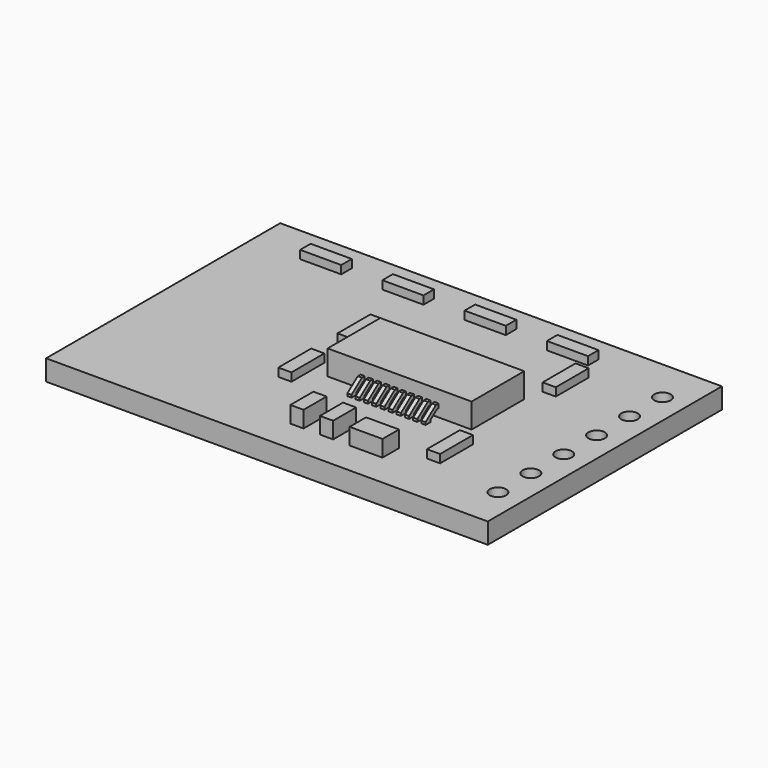
from build123d import *

# Parameters (mm, degrees)
F0_W          = 26.85
F0_H          = 17.79
F0_R          = 0.5
F1_DEPTH      = 1.25
F3_DEPTH      = 1.5
F2_W          = 0.25
F2_H          = 1
F4_DEPTH      = 0.75
F6_DEPTH      = 13.426
F6_DEPTH_BACK = 25.4
F7_W          = 0.8
F7_H          = 2.5
F8_DEPTH      = 0.5
F7_W_2        = 2.5
F7_H_2        = 0.8
F9_W          = 0.8
F9_H          = 1.75
F10_DEPTH     = 1
F9_W_2        = 2
F9_H_2        = 1.25


with BuildPart() as f1:
    # F0 (on Top) → F1 (new body)
    with BuildSketch(Plane.XY):
        Rectangle(F0_W, F0_H)
        with Locations((11.925, -6.25)):
            Circle(F0_R, mode=Mode.SUBTRACT)
        with Locations((11.925, -3.75)):
            Circle(F0_R, mode=Mode.SUBTRACT)
        with Locations((11.925, -1.25)):
            Circle(F0_R, mode=Mode.SUBTRACT)
        with Locations((11.925, 1.25)):
            Circle(F0_R, mode=Mode.SUBTRACT)
        with Locations((11.925, 3.75)):
            Circle(F0_R, mode=Mode.SUBTRACT)
        with Locations((11.925, 6.25)):
            Circle(F0_R, mode=Mode.SUBTRACT)
    extrude(amount=F1_DEPTH)


with BuildPart() as f3:
    # F2 (on face) → F3 (new body)
    with BuildSketch(Plane.XY.offset(1.25)):
        Polygon((4.925, -2), (6.925, -2), (6.925, 2), (4.925, 2), (4.675, 2), (4.425, 2), (4.175, 2), (3.925, 2), (3.675, 2), (3.425, 2), (3.175, 2), (2.925, 2), (2.675, 2), (2.425, 2), (2.175, 2), (1.925, 2), (1.675, 2), (1.425, 2), (1.175, 2), (0.925, 2), (0.675, 2), (0.425, 2), (0.175, 2), (-1.825, 2), (-1.825, -2), (0.175, -2), (0.425, -2), (0.675, -2), (0.925, -2), (1.175, -2), (1.425, -2), (1.675, -2), (1.925, -2), (2.175, -2), (2.425, -2), (2.675, -2), (2.925, -2), (3.175, -2), (3.425, -2), (3.675, -2), (3.925, -2), (4.175, -2), (4.425, -2), (4.675, -2), align=None)
    extrude(amount=F3_DEPTH)


with BuildPart() as f4:
    # F2 (on face) → F4 (new body)
    with BuildSketch(Plane.XY.offset(1.25)):
        with Locations((4.8, 2.5)):
            Rectangle(F2_W, F2_H)
    extrude(amount=F4_DEPTH)


with BuildPart() as f4b:
    # F2 (on face) → F4, piece 2 (new body)
    with BuildSketch(Plane.XY.offset(1.25)):
        with Locations((1.8, 2.5)):
            Rectangle(F2_W, F2_H)
    extrude(amount=F4_DEPTH)


with BuildPart() as f4c:
    # F2 (on face) → F4, piece 3 (new body)
    with BuildSketch(Plane.XY.offset(1.25)):
        with Locations((4.3, 2.5)):
            Rectangle(F2_W, F2_H)
    extrude(amount=F4_DEPTH)


with BuildPart() as f4d:
    # F2 (on face) → F4, piece 4 (new body)
    with BuildSketch(Plane.XY.offset(1.25)):
        with Locations((4.3, -2.5)):
            Rectangle(F2_W, F2_H)
    extrude(amount=F4_DEPTH)


with BuildPart() as f4e:
    # F2 (on face) → F4, piece 5 (new body)
    with BuildSketch(Plane.XY.offset(1.25)):
        with Locations((2.8, 2.5)):
            Rectangle(F2_W, F2_H)
    extrude(amount=F4_DEPTH)


with BuildPart() as f4f:
    # F2 (on face) → F4, piece 6 (new body)
    with BuildSketch(Plane.XY.offset(1.25)):
        with Locations((1.3, 2.5)):
            Rectangle(F2_W, F2_H)
    extrude(amount=F4_DEPTH)


with BuildPart() as f4g:
    # F2 (on face) → F4, piece 7 (new body)
    with BuildSketch(Plane.XY.offset(1.25)):
        with Locations((4.8, -2.5)):
            Rectangle(F2_W, F2_H)
    extrude(amount=F4_DEPTH)


with BuildPart() as f4h:
    # F2 (on face) → F4, piece 8 (new body)
    with BuildSketch(Plane.XY.offset(1.25)):
        with Locations((3.3, 2.5)):
            Rectangle(F2_W, F2_H)
    extrude(amount=F4_DEPTH)


with BuildPart() as f4i:
    # F2 (on face) → F4, piece 9 (new body)
    with BuildSketch(Plane.XY.offset(1.25)):
        with Locations((1.3, -2.5)):
            Rectangle(F2_W, F2_H)
    extrude(amount=F4_DEPTH)


with BuildPart() as f4j:
    # F2 (on face) → F4, piece 10 (new body)
    with BuildSketch(Plane.XY.offset(1.25)):
        with Locations((0.3, -2.5)):
            Rectangle(F2_W, F2_H)
    extrude(amount=F4_DEPTH)


with BuildPart() as f4k:
    # F2 (on face) → F4, piece 11 (new body)
    with BuildSketch(Plane.XY.offset(1.25)):
        with Locations((1.8, -2.5)):
            Rectangle(F2_W, F2_H)
    extrude(amount=F4_DEPTH)


with BuildPart() as f4l:
    # F2 (on face) → F4, piece 12 (new body)
    with BuildSketch(Plane.XY.offset(1.25)):
        with Locations((2.3, -2.5)):
            Rectangle(F2_W, F2_H)
    extrude(amount=F4_DEPTH)


with BuildPart() as f4m:
    # F2 (on face) → F4, piece 13 (new body)
    with BuildSketch(Plane.XY.offset(1.25)):
        with Locations((2.8, -2.5)):
            Rectangle(F2_W, F2_H)
    extrude(amount=F4_DEPTH)


with BuildPart() as f4n:
    # F2 (on face) → F4, piece 14 (new body)
    with BuildSketch(Plane.XY.offset(1.25)):
        with Locations((3.3, -2.5)):
            Rectangle(F2_W, F2_H)
    extrude(amount=F4_DEPTH)


with BuildPart() as f4o:
    # F2 (on face) → F4, piece 15 (new body)
    with BuildSketch(Plane.XY.offset(1.25)):
        with Locations((0.3, 2.5)):
            Rectangle(F2_W, F2_H)
    extrude(amount=F4_DEPTH)


with BuildPart() as f4p:
    # F2 (on face) → F4, piece 16 (new body)
    with BuildSketch(Plane.XY.offset(1.25)):
        with Locations((2.3, 2.5)):
            Rectangle(F2_W, F2_H)
    extrude(amount=F4_DEPTH)


with BuildPart() as f4q:
    # F2 (on face) → F4, piece 17 (new body)
    with BuildSketch(Plane.XY.offset(1.25)):
        with Locations((3.8, 2.5)):
            Rectangle(F2_W, F2_H)
    extrude(amount=F4_DEPTH)


with BuildPart() as f4r:
    # F2 (on face) → F4, piece 18 (new body)
    with BuildSketch(Plane.XY.offset(1.25)):
        with Locations((0.8, 2.5)):
            Rectangle(F2_W, F2_H)
    extrude(amount=F4_DEPTH)


with BuildPart() as f4s:
    # F2 (on face) → F4, piece 19 (new body)
    with BuildSketch(Plane.XY.offset(1.25)):
        with Locations((3.8, -2.5)):
            Rectangle(F2_W, F2_H)
    extrude(amount=F4_DEPTH)


with BuildPart() as f4t:
    # F2 (on face) → F4, piece 20 (new body)
    with BuildSketch(Plane.XY.offset(1.25)):
        with Locations((0.8, -2.5)):
            Rectangle(F2_W, F2_H)
    extrude(amount=F4_DEPTH)


with BuildPart() as f6_tool:
    # F5 (on Right) → F6 (new body, two sides)
    with BuildSketch(Plane.YZ) as f6_sk:
        Polygon((-2, 1.25), (-2, 1.75), (-2.125, 1.75), (-2.625, 1.375), (-2.625, 1.25), align=None)
        Polygon((-3, 1.40625), (-2.2083333333, 2), (-3, 2), align=None)
        Polygon((2.125, 1.75), (2, 1.75), (2, 1.25), (2.625, 1.25), (2.625, 1.375), align=None)
        Polygon((3, 2), (2.2083333333, 2), (3, 1.40625), align=None)
    extrude(amount=-F6_DEPTH)
    extrude(f6_sk.sketch, amount=F6_DEPTH_BACK)


with BuildPart() as f4_1:
    add(f4.part)

    # F6: cut by f6_tool
    add(f6_tool.part, mode=Mode.SUBTRACT)


with BuildPart() as f4b_1:
    add(f4b.part)

    # F6: cut by f6_tool
    add(f6_tool.part, mode=Mode.SUBTRACT)


with BuildPart() as f4c_1:
    add(f4c.part)

    # F6: cut by f6_tool
    add(f6_tool.part, mode=Mode.SUBTRACT)


with BuildPart() as f4d_1:
    add(f4d.part)

    # F6: cut by f6_tool
    add(f6_tool.part, mode=Mode.SUBTRACT)


with BuildPart() as f4e_1:
    add(f4e.part)

    # F6: cut by f6_tool
    add(f6_tool.part, mode=Mode.SUBTRACT)


with BuildPart() as f4f_1:
    add(f4f.part)

    # F6: cut by f6_tool
    add(f6_tool.part, mode=Mode.SUBTRACT)


with BuildPart() as f4g_1:
    add(f4g.part)

    # F6: cut by f6_tool
    add(f6_tool.part, mode=Mode.SUBTRACT)


with BuildPart() as f4h_1:
    add(f4h.part)

    # F6: cut by f6_tool
    add(f6_tool.part, mode=Mode.SUBTRACT)


with BuildPart() as f4i_1:
    add(f4i.part)

    # F6: cut by f6_tool
    add(f6_tool.part, mode=Mode.SUBTRACT)


with BuildPart() as f4j_1:
    add(f4j.part)

    # F6: cut by f6_tool
    add(f6_tool.part, mode=Mode.SUBTRACT)


with BuildPart() as f4k_1:
    add(f4k.part)

    # F6: cut by f6_tool
    add(f6_tool.part, mode=Mode.SUBTRACT)


with BuildPart() as f4l_1:
    add(f4l.part)

    # F6: cut by f6_tool
    add(f6_tool.part, mode=Mode.SUBTRACT)


with BuildPart() as f4m_1:
    add(f4m.part)

    # F6: cut by f6_tool
    add(f6_tool.part, mode=Mode.SUBTRACT)


with BuildPart() as f4n_1:
    add(f4n.part)

    # F6: cut by f6_tool
    add(f6_tool.part, mode=Mode.SUBTRACT)


with BuildPart() as f4o_1:
    add(f4o.part)

    # F6: cut by f6_tool
    add(f6_tool.part, mode=Mode.SUBTRACT)


with BuildPart() as f4p_1:
    add(f4p.part)

    # F6: cut by f6_tool
    add(f6_tool.part, mode=Mode.SUBTRACT)


with BuildPart() as f4q_1:
    add(f4q.part)

    # F6: cut by f6_tool
    add(f6_tool.part, mode=Mode.SUBTRACT)


with BuildPart() as f4r_1:
    add(f4r.part)

    # F6: cut by f6_tool
    add(f6_tool.part, mode=Mode.SUBTRACT)


with BuildPart() as f4s_1:
    add(f4s.part)

    # F6: cut by f6_tool
    add(f6_tool.part, mode=Mode.SUBTRACT)


with BuildPart() as f4t_1:
    add(f4t.part)

    # F6: cut by f6_tool
    add(f6_tool.part, mode=Mode.SUBTRACT)


with BuildPart() as f8:
    # F7 (on face) → F8 (new body)
    with BuildSketch(Plane.XY.offset(1.25)):
        with Locations((7.525, 4.395)):
            Rectangle(F7_W, F7_H)
    extrude(amount=F8_DEPTH)


with BuildPart() as f8b:
    # F7 (on face) → F8, piece 2 (new body)
    with BuildSketch(Plane.XY.offset(1.25)):
        with Locations((7.525, -4.395)):
            Rectangle(F7_W, F7_H)
    extrude(amount=F8_DEPTH)


with BuildPart() as f8c:
    # F7 (on face) → F8, piece 3 (new body)
    with BuildSketch(Plane.XY.offset(1.25)):
        with Locations((5.875, 6.995)):
            Rectangle(F7_W_2, F7_H_2)
    extrude(amount=F8_DEPTH)


with BuildPart() as f8d:
    # F7 (on face) → F8, piece 4 (new body)
    with BuildSketch(Plane.XY.offset(1.25)):
        with Locations((-3.225, 2.25)):
            Rectangle(F7_W, F7_H)
    extrude(amount=F8_DEPTH)


with BuildPart() as f8e:
    # F7 (on face) → F8, piece 5 (new body)
    with BuildSketch(Plane.XY.offset(1.25)):
        with Locations((-3.225, -2.25)):
            Rectangle(F7_W, F7_H)
    extrude(amount=F8_DEPTH)


with BuildPart() as f8f:
    # F7 (on face) → F8, piece 6 (new body)
    with BuildSketch(Plane.XY.offset(1.25)):
        with Locations((0.875, 6.995)):
            Rectangle(F7_W_2, F7_H_2)
    extrude(amount=F8_DEPTH)


with BuildPart() as f8g:
    # F7 (on face) → F8, piece 7 (new body)
    with BuildSketch(Plane.XY.offset(1.25)):
        with Locations((-4.125, 6.995)):
            Rectangle(F7_W_2, F7_H_2)
    extrude(amount=F8_DEPTH)


with BuildPart() as f8h:
    # F7 (on face) → F8, piece 8 (new body)
    with BuildSketch(Plane.XY.offset(1.25)):
        with Locations((-9.125, 6.995)):
            Rectangle(F7_W_2, F7_H_2)
    extrude(amount=F8_DEPTH)


with BuildPart() as f10:
    # F9 (on face) → F10 (new body)
    with BuildSketch(Plane.XY.offset(1.25)):
        with Locations((0.225, -6.02)):
            Rectangle(F9_W, F9_H)
    extrude(amount=F10_DEPTH)


with BuildPart() as f10b:
    # F9 (on face) → F10, piece 2 (new body)
    with BuildSketch(Plane.XY.offset(1.25)):
        with Locations((2.025, -6.02)):
            Rectangle(F9_W, F9_H)
    extrude(amount=F10_DEPTH)


with BuildPart() as f10c:
    # F9 (on face) → F10, piece 3 (new body)
    with BuildSketch(Plane.XY.offset(1.25)):
        with Locations((4.425, -6.27)):
            Rectangle(F9_W_2, F9_H_2)
    extrude(amount=F10_DEPTH)


solid = Compound([f1.part, f3.part, f4_1.part, f4b_1.part, f4c_1.part, f4d_1.part, f4e_1.part, f4f_1.part, f4g_1.part, f4h_1.part, f4i_1.part, f4j_1.part, f4k_1.part, f4l_1.part, f4m_1.part, f4n_1.part, f4o_1.part, f4p_1.part, f4q_1.part, f4r_1.part, f4s_1.part, f4t_1.part, f8.part, f8b.part, f8c.part, f8d.part, f8e.part, f8f.part, f8g.part, f8h.part, f10.part, f10b.part, f10c.part])
